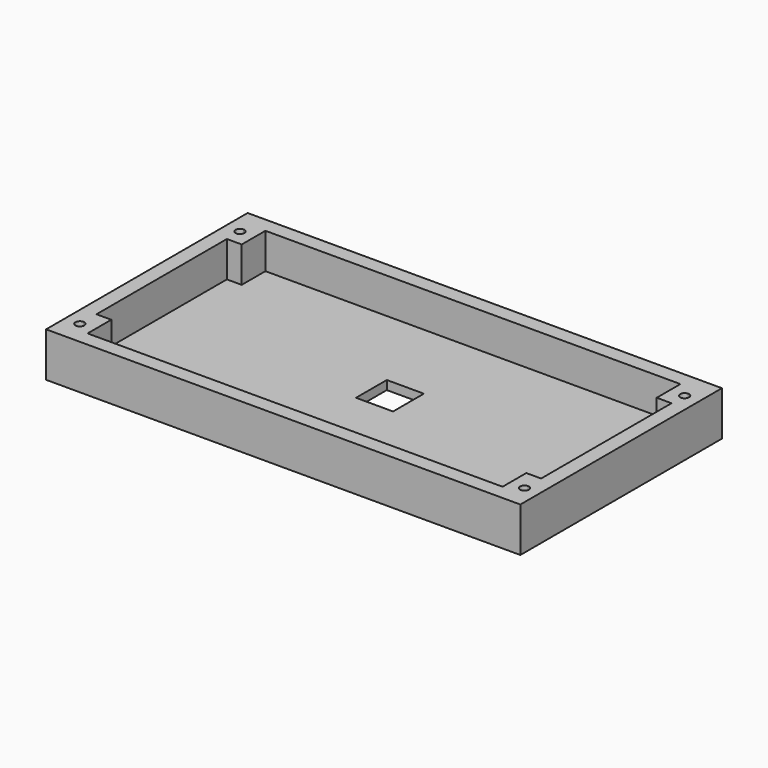
from build123d import *

# Parameters (mm, degrees)
F0_W     = 160
F0_H     = 85
F0_W_2   = 12.5
F0_H_2   = 13
F1_DEPTH = 3
F2_W     = 160
F2_H     = 85
F2_W_2   = 150
F2_H_2   = 75
F3_DEPTH = 12
F5_DEPTH = 12
F6_DEPTH = 15


with BuildPart() as f1:
    # F0 (on Top) → F1 (new body)
    with BuildSketch(Plane.XY):
        with Locations((0, -2.5)):
            Rectangle(F0_W, F0_H)
        Rectangle(F0_W_2, F0_H_2, mode=Mode.SUBTRACT)
    extrude(amount=F1_DEPTH)

    # F2 (on face) → F3 (join)
    with BuildSketch(Plane.XY.offset(3)):
        with Locations((0, -2.5)):
            Rectangle(F2_W, F2_H)
        with Locations((0, -2.5)):
            Rectangle(F2_W_2, F2_H_2, mode=Mode.SUBTRACT)
    extrude(amount=F3_DEPTH)

    # F4 (on face) → F5 (join, through all)
    with BuildSketch(Plane.XY.offset(15)):
        with BuildLine():
            ThreePointArc((75, 29), (73.5, 30.5), (75, 32))
            Line((75, 32), (75, 35))
            Line((75, 35), (70, 35))
            Line((70, 35), (70, 25))
            Line((70, 25), (75, 25))
            Line((75, 25), (75, 29))
        make_face()
        with BuildLine():
            ThreePointArc((-75, 32), (-73.93934, 31.56066), (-73.5, 30.5))
            ThreePointArc((-73.5, 30.5), (-73.93934, 29.43934), (-75, 29))
            Line((-75, 29), (-75, 25))
            Line((-75, 25), (-70, 25))
            Line((-70, 25), (-70, 35))
            Line((-70, 35), (-75, 35))
            Line((-75, 35), (-75, 32))
        make_face()
        with BuildLine():
            ThreePointArc((-75, -35.5), (-73.93934, -35.93934), (-73.5, -37))
            ThreePointArc((-73.5, -37), (-73.93934, -38.06066), (-75, -38.5))
            Line((-75, -38.5), (-75, -40))
            Line((-75, -40), (-70, -40))
            Line((-70, -40), (-70, -30))
            Line((-70, -30), (-75, -30))
            Line((-75, -30), (-75, -35.5))
        make_face()
        with BuildLine():
            ThreePointArc((75, -38.5), (73.5, -37), (75, -35.5))
            Line((75, -35.5), (75, -30))
            Line((75, -30), (70, -30))
            Line((70, -30), (70, -40))
            Line((70, -40), (75, -40))
            Line((75, -40), (75, -38.5))
        make_face()
    extrude(amount=-F5_DEPTH)

    # F4 (on face) → F6 (cut, through all)
    with BuildSketch(Plane.XY.offset(15)):
        with BuildLine():
            ThreePointArc((-75, -38.5), (-73.93934, -38.06066), (-73.5, -37))
            ThreePointArc((-73.5, -37), (-73.93934, -35.93934), (-75, -35.5))
            Line((-75, -35.5), (-75, -38.5))
        make_face()
        with BuildLine():
            Line((-75, -38.5), (-75, -35.5))
            ThreePointArc((-75, -35.5), (-76.5, -37), (-75, -38.5))
        make_face()
        with BuildLine():
            ThreePointArc((75, -38.5), (76.06066, -38.06066), (76.5, -37))
            ThreePointArc((76.5, -37), (76.06066, -35.93934), (75, -35.5))
            Line((75, -35.5), (75, -38.5))
        make_face()
        with BuildLine():
            Line((75, -38.5), (75, -35.5))
            ThreePointArc((75, -35.5), (73.5, -37), (75, -38.5))
        make_face()
        with BuildLine():
            Line((75, 29), (75, 32))
            ThreePointArc((75, 32), (73.5, 30.5), (75, 29))
        make_face()
        with BuildLine():
            ThreePointArc((75, 29), (76.06066, 29.43934), (76.5, 30.5))
            ThreePointArc((76.5, 30.5), (76.06066, 31.56066), (75, 32))
            Line((75, 32), (75, 29))
        make_face()
        with BuildLine():
            ThreePointArc((-75, 29), (-73.93934, 29.43934), (-73.5, 30.5))
            ThreePointArc((-73.5, 30.5), (-73.93934, 31.56066), (-75, 32))
            Line((-75, 32), (-75, 29))
        make_face()
        with BuildLine():
            Line((-75, 29), (-75, 32))
            ThreePointArc((-75, 32), (-76.5, 30.5), (-75, 29))
        make_face()
    extrude(amount=-F6_DEPTH, mode=Mode.SUBTRACT)


solid = f1.part
